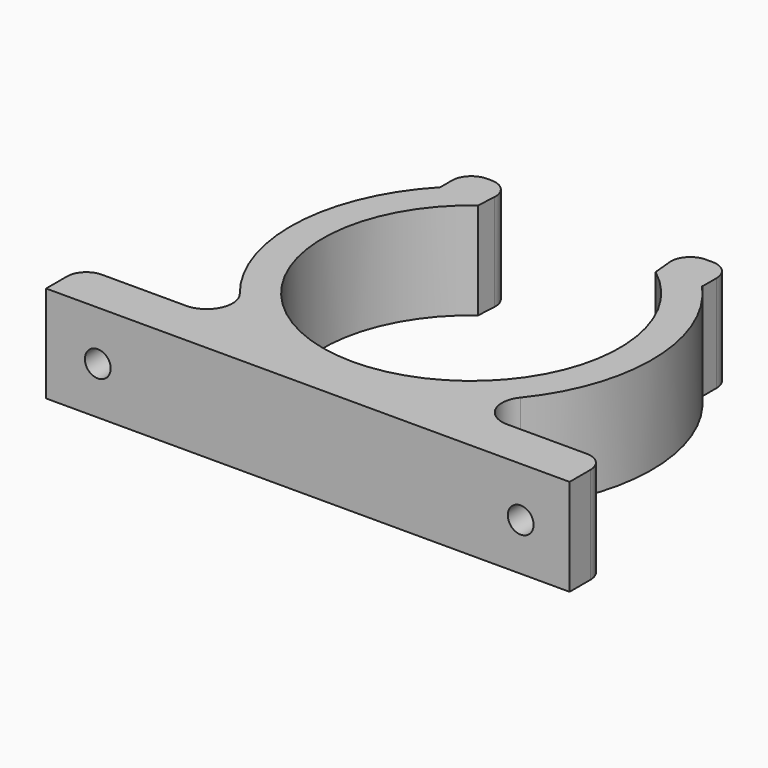
from build123d import *

# Parameters (mm, degrees)
F1_DEPTH       = 15
F2_R           = 3
F4_D           = 4
F4_CSINK_D     = 8
F4_CSINK_ANGLE = 90
F5_R           = 4


with BuildPart() as f1:
    # F0 (on Top) → F1 (new body)
    with BuildSketch(Plane.XY):
        with BuildLine():
            Line((20.835556, 37.046353), (20.835556, 29.997582))
            Line((20.835556, 29.997582), (101.955885, 29.997582))
            Line((101.955885, 29.997582), (101.955885, 37.046353))
            Line((101.955885, 37.046353), (75.967759, 37.046353))
            ThreePointArc((75.967759, 37.046353), (89.452061, 57.015966), (82.430315, 80.066062))
            Line((82.430315, 80.066062), (82.492916, 80.06982))
            Line((82.492916, 80.06982), (82.492916, 85.78659))
            Line((82.492916, 85.78659), (75.115513, 85.78659))
            Line((75.115513, 85.78659), (75.732713, 79.446834))
            ThreePointArc((75.732713, 79.446834), (61.595594, 38.176149), (48.059836, 79.647957))
            Line((48.059836, 79.647957), (48.409987, 85.78659))
            Line((48.409987, 85.78659), (41.504001, 85.78659))
            Line((41.504001, 85.78659), (41.504001, 80.503838))
            ThreePointArc((41.504001, 80.503838), (33.996464, 57.565367), (47.120148, 37.309369))
            ThreePointArc((47.120148, 37.309369), (47.338346, 37.176863), (47.557742, 37.046353))
            Line((47.557742, 37.046353), (20.835556, 37.046353))
        make_face()
    extrude(amount=F1_DEPTH)

    # F2
    f2_edges = [f1.edges().sort_by_distance(p)[0] for p in [
        (75.115513, 85.78659, 7.5),
        (82.492916, 85.78659, 7.5),
        (48.409987, 85.78659, 7.5),
        (41.504001, 85.78659, 7.5),
        (20.835556, 37.046353, 7.5),
        (101.955885, 37.046353, 7.5),
    ]]
    fillet(f2_edges, radius=F2_R)

    # F4 (through all)
    with Locations(Plane(origin=(0, 37.046353, 0), x_dir=(-1, 0, 0), z_dir=(0, 1, 0))):
        with Locations((-94.379296, 7.332574), (-28.848284, 7.332574)):
            CounterSinkHole(F4_D / 2, F4_CSINK_D / 2, counter_sink_angle=F4_CSINK_ANGLE)

    # F5
    f5_edges = [f1.edges().sort_by_distance(p)[0] for p in [
        (75.967759, 37.046353, 7.5),
        (47.557742, 37.046353, 7.5),
    ]]
    fillet(f5_edges, radius=F5_R)


solid = f1.part
